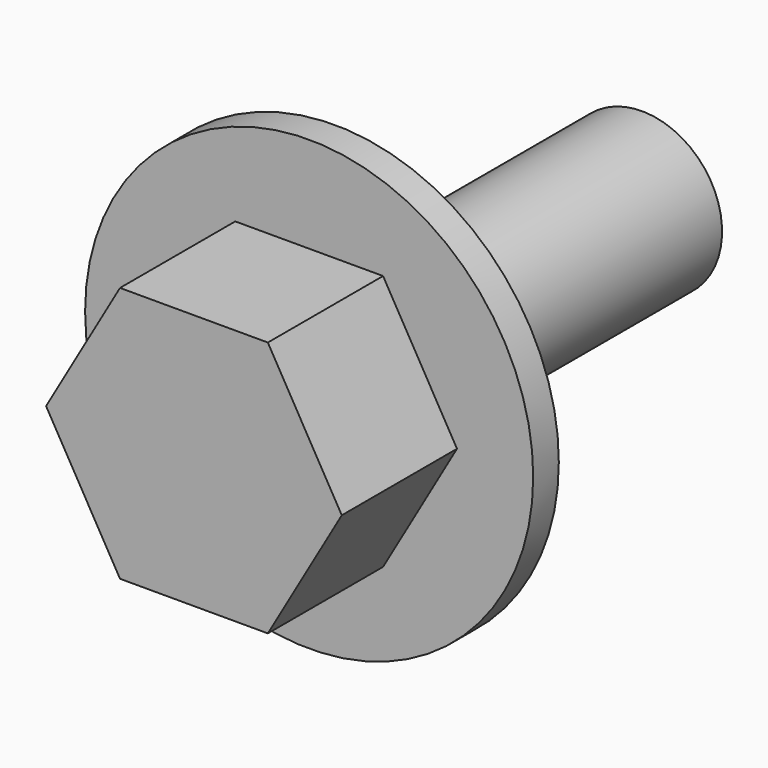
from build123d import *

# Parameters (mm, degrees)
F1_DEPTH = 5.5
F2_R     = 7
F3_DEPTH = 1
F4_R     = 2.5
F5_DEPTH = 12


with BuildPart() as f1:
    # F0 (on Front) → F1 (new body)
    with BuildSketch(Plane.XZ):
        Polygon((0, 4), (2.309401, 0), (6.928203, 0), (9.237604, 4), (6.928203, 8), (2.309401, 8), align=None)
    extrude(amount=F1_DEPTH)

    # F2 (on face) → F3 (join)
    with BuildSketch(Plane(origin=(0, 0, 0), x_dir=(-1, 0, 0), z_dir=(0, 1, 0))):
        with Locations((-4.618802, 4)):
            Circle(F2_R)
        Polygon((-2.309401, 8), (0, 4), (-2.309401, 0), (-6.928203, 0), (-9.237604, 4), (-6.928203, 8), align=None, mode=Mode.SUBTRACT)
    extrude(amount=-F3_DEPTH)

    # F4 (on face) → F5 (join)
    with BuildSketch(Plane(origin=(0, 0, 0), x_dir=(-1, 0, 0), z_dir=(0, 1, 0))):
        with Locations((-4.618802, 4)):
            Circle(F4_R)
    extrude(amount=F5_DEPTH)


solid = f1.part
